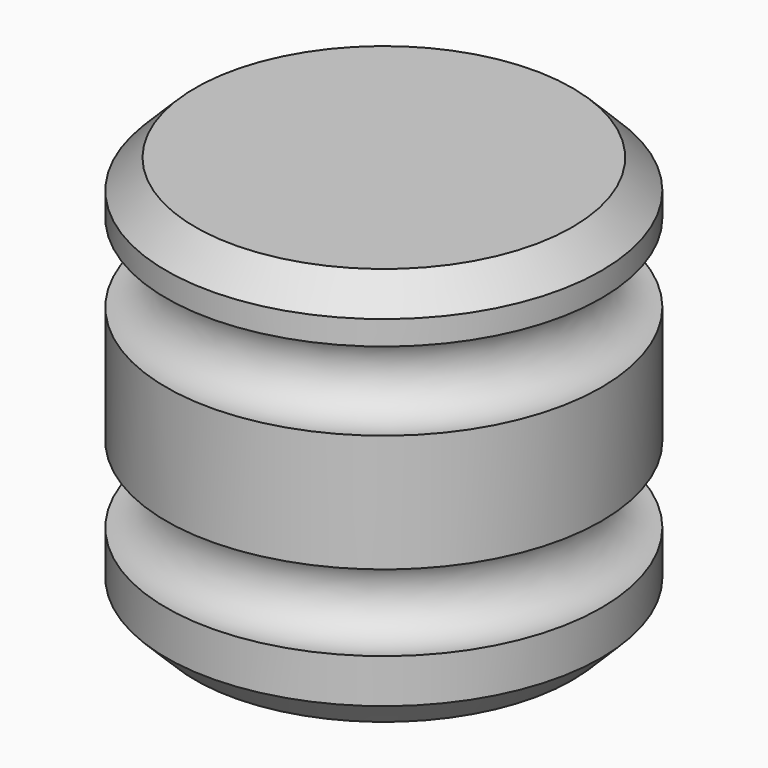
from build123d import *

# Parameters (mm, degrees)
F2_SIZE = 5.08


with BuildPart() as f1:
    # F0 (on Front) → F1 (revolve)
    with BuildSketch(Plane.XZ):
        with BuildLine():
            Line((-38.1, 0), (0, 0))
            Line((0, 0), (0, 12.793962))
            ThreePointArc((0, 12.793962), (-7.479552, 19.477375), (0, 26.160788))
            Line((0, 26.160788), (0, 46.783894))
            ThreePointArc((0, 46.783894), (-7.513592, 53.65826), (0, 60.532626))
            Line((0, 60.532626), (0, 69.85))
            Line((0, 69.85), (-38.1, 69.85))
            Line((-38.1, 69.85), (-38.1, 0))
        make_face()
    revolve(axis=Axis((-38.1, 0, 34.925), (0, 0, 1)))

    # F2
    f2_edges = [f1.edges().sort_by_distance(p)[0] for p in [
        (-76.2, 0, 69.85),
        (-76.2, 0, 0),
    ]]
    chamfer(f2_edges, length=F2_SIZE)


solid = f1.part
